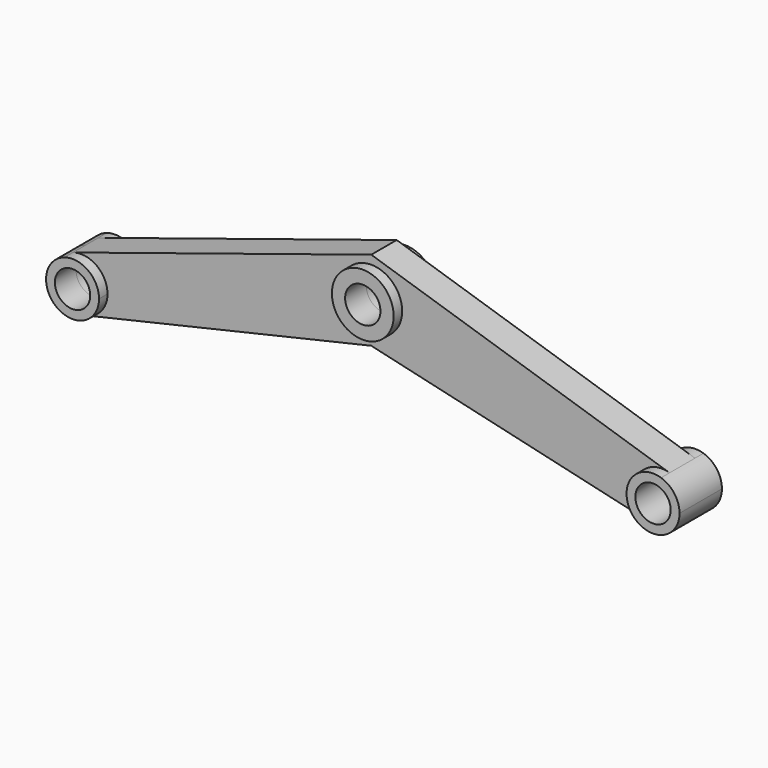
from build123d import *

# Parameters (mm, degrees)
F0_R     = 17.485502
F1_DEPTH = 9
F0_R_2   = 10
F2_DEPTH = 15


with BuildPart() as f1:
    # F0 (on Front) → F1 (new body, symmetric)
    with BuildSketch(Plane.XZ):
        with BuildLine():
            Line((-159.746744, -37.016726), (0, 0))
            Line((0, 0), (159.746744, -37.016726))
            ThreePointArc((159.746744, -37.016726), (150.009174, -18.170514), (168.855387, -8.432944))
            Line((168.855387, -8.432944), (0, 45.375305))
            Line((0, 45.375305), (-168.855387, -8.432944))
            ThreePointArc((-168.855387, -8.432944), (-155.449931, -10.614616), (-149.301066, -22.724835))
            ThreePointArc((-149.301066, -22.724835), (-152.190846, -31.57597), (-159.746744, -37.016726))
        make_face()
        with Locations((0, 22.909513)):
            Circle(F0_R, mode=Mode.SUBTRACT)
    extrude(amount=F1_DEPTH, both=True)

    # F0 (on Front) → F2 (join, symmetric)
    with BuildSketch(Plane.XZ):
        with BuildLine():
            ThreePointArc((-168.855387, -8.432944), (-178.592957, -27.279156), (-159.746744, -37.016726))
            ThreePointArc((-159.746744, -37.016726), (-152.190846, -31.57597), (-149.301066, -22.724835))
            ThreePointArc((-149.301066, -22.724835), (-155.449931, -10.614616), (-168.855387, -8.432944))
        make_face()
        with Locations((-164.301066, -22.724835)):
            Circle(F0_R_2, mode=Mode.SUBTRACT)
        with Locations((0, 22.909513)):
            Circle(F0_R)
        with Locations((0, 22.909513)):
            Circle(F0_R_2, mode=Mode.SUBTRACT)
        with BuildLine():
            ThreePointArc((168.855387, -8.432944), (150.009174, -18.170514), (159.746744, -37.016726))
            ThreePointArc((159.746744, -37.016726), (173.152201, -34.835054), (179.301066, -22.724835))
            ThreePointArc((179.301066, -22.724835), (176.411285, -13.8737), (168.855387, -8.432944))
        make_face()
        with Locations((164.301066, -22.724835)):
            Circle(F0_R_2, mode=Mode.SUBTRACT)
    extrude(amount=F2_DEPTH, both=True)


solid = f1.part
